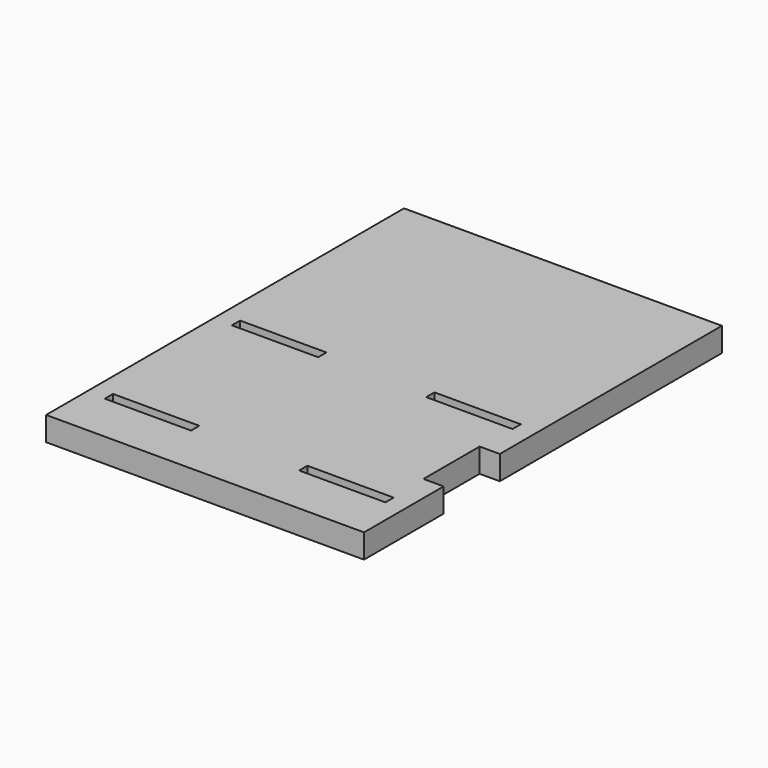
from build123d import *

# Parameters (mm, degrees)
F0_W     = 45.339
F0_H     = 38.4048
F1_DEPTH = 3.429
F2_W     = 12.309304
F2_H     = 1.4732
F2_W_2   = 5.751361
F2_H_2   = 10.011873
F3_DEPTH = 25.4
F4_W     = 45.339
F4_H     = 3.429
F5_DEPTH = 25.4


with BuildPart() as f1:
    # F0 (on Top) → F1 (new body)
    with BuildSketch(Plane.XY):
        with Locations((-0.877853, 11.814515)):
            Rectangle(F0_W, F0_H)
    extrude(amount=F1_DEPTH)

    # F2 (on face) → F3 (cut)
    with BuildSketch(Plane.XY.offset(3.429)):
        with Locations((-14.737868, 23.142915)):
            Rectangle(F2_W, F2_H)
        with Locations((12.982161, 23.142915)):
            Rectangle(F2_W, F2_H)
        with Locations((-14.737868, 0.486115)):
            Rectangle(F2_W, F2_H)
        with Locations((12.982161, 0.486115)):
            Rectangle(F2_W, F2_H)
        with Locations((21.791646, 11.814514)):
            Rectangle(F2_W_2, F2_H_2)
    extrude(amount=-F3_DEPTH, mode=Mode.SUBTRACT)

    # F4 (on face) → F5 (join)
    with BuildSketch(Plane(origin=(0, 31.016915, 0), x_dir=(-1, 0, 0), z_dir=(0, 1, 0))):
        with Locations((0.877853, 1.7145)):
            Rectangle(F4_W, F4_H)
    extrude(amount=F5_DEPTH)


solid = f1.part
